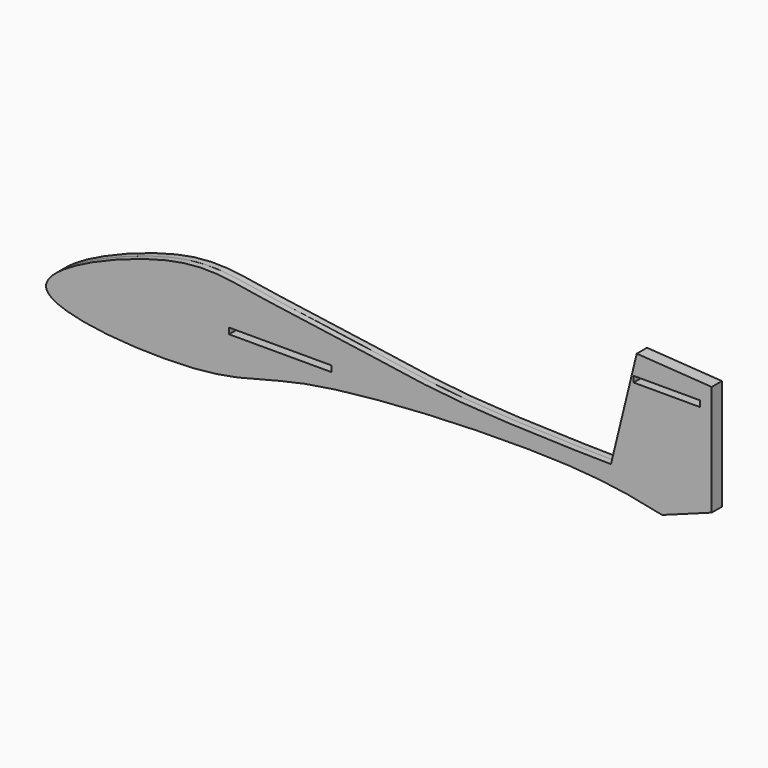
from build123d import *

# Parameters (mm, degrees)
F0_W     = 25.4
F0_H     = 1.4732
F0_W_2   = 16.51
F1_DEPTH = 1.5875


with BuildPart() as f1:
    # F0 (on Front) → F1 (new body, symmetric)
    with BuildSketch(Plane.XZ):
        with BuildLine():
            Line((75.9853422642, -11.049605906), (75.9853422642, 16.4319649339))
            Line((75.9853422642, 16.4319649339), (57.3725447846, 17.6624897867))
            Line((57.3725447846, 17.6624897867), (50.9647913277, -8.5885720327))
            add(Edge.make_bspline(
                [(63.680164516, -15.5615080148), (57.3725447846, -14.2067525214), (40.6407569604, -10.6130860618), (-27.5044362889, -13.3266036753), (-46.2944034276, -23.6920689758), (-109.7123940351, -19.1559209776), (-56.7289388494, 3.6043840175), (-39.674620718, -0.1413187534), (-10.8510815668, -3.6424359231), (12.6039889865, -8.0652705061), (48.5296827051, -8.5707510919), (50.9647913277, -8.5885720327)],
                knots=[0, 0, 0, 0, 0.0937832784, 0.2487724344, 0.3524953409, 0.4704695713, 0.5819861821, 0.6711259871, 0.7697322002, 0.8743076683, 0.9876384738, 0.9876384738, 0.9876384738, 0.9876384738], degree=3))
            Line((63.680164516, -15.5615080148), (75.9853422642, -11.049605906))
        make_face()
        with Locations((-31.196228075, -10.2999189612)):
            Rectangle(F0_W, F0_H, mode=Mode.SUBTRACT)
        with Locations((64.8386727619, 11.8251370523)):
            Rectangle(F0_W_2, F0_H, mode=Mode.SUBTRACT)
    extrude(amount=F1_DEPTH, both=True)


solid = f1.part
